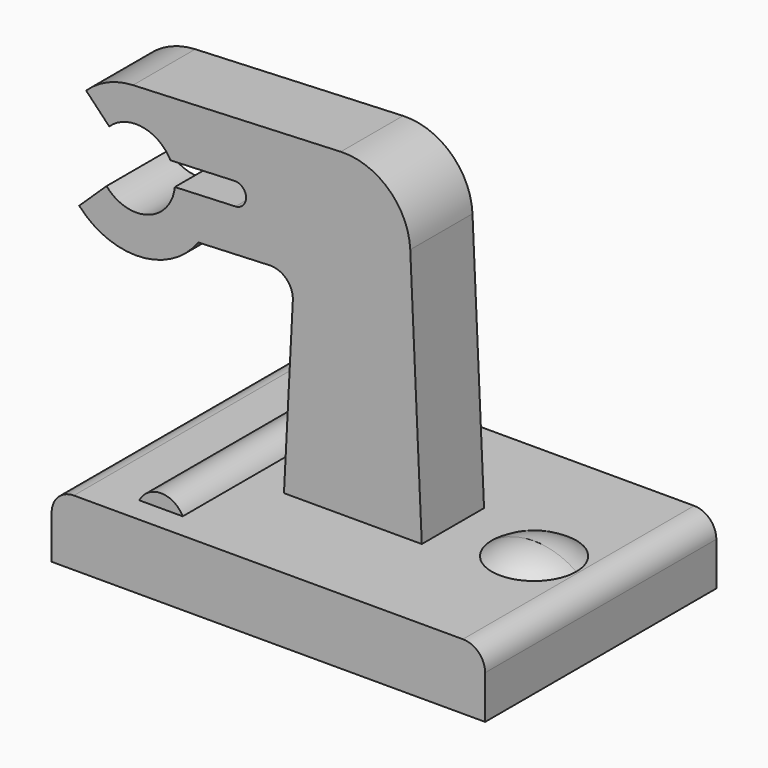
from build123d import *

# Parameters (mm, degrees)
PAD_DEPTH        = 6.5
PAD001_DEPTH     = 5.35
REVOLUTION_ANGLE = -180
PAD002_DEPTH     = 1.75


with BuildPart() as part:
    # Sketch → Pad (new body)
    with BuildSketch(Plane.XZ):
        with BuildLine():
            Line((-9.75, 0), (9.75, 0))
            Line((9.75, 0), (9.75, 1.95))
            ThreePointArc((9.75, 1.95), (9.457107, 2.657107), (8.75, 2.95))
            Line((8.75, 2.95), (-8.75, 2.95))
            ThreePointArc((-8.75, 2.95), (-9.457107, 2.657107), (-9.75, 1.95))
            Line((-9.75, 1.95), (-9.75, 0))
        make_face()
    pad = extrude(amount=-PAD_DEPTH)

    # Sketch001 → Pad001 (join)
    with BuildSketch(Plane.XZ):
        with BuildLine():
            ThreePointArc((-4.775, 2.95), (-5.75, 3.55), (-6.725, 2.95))
            Line((-6.725, 2.95), (-4.775, 2.95))
        make_face()
    pad001 = extrude(amount=-PAD001_DEPTH)

    # Sketch002 → Revolution (revolve)
    with BuildSketch(Plane.XZ):
        with BuildLine():
            ThreePointArc((8.65, 2.95), (7.746243, 3.396436), (6.75, 3.55))
            Line((6.75, 3.55), (6.75, 0.241667))
            Line((8.65, 2.95), (6.75, 0.241667))
        make_face()
    revolution = revolve(axis=Axis((6.75, 0, 3.55), (0, 0, -1)), revolution_arc=REVOLUTION_ANGLE)

    # Sketch003 → Pad002 (join)
    with BuildSketch(Plane.XZ):
        with BuildLine():
            Line((-3.1, 2.95), (3.1, 2.95))
            Line((3.1, 2.95), (2.580696, 14.438223))
            ThreePointArc((2.580696, 14.438223), (1.609703, 16.515339), (-0.544721, 17.3))
            Line((-0.544721, 17.3), (-9.889288, 16.899445))
            ThreePointArc((-9.889288, 16.899445), (-11.025908, 16.641713), (-11.998693, 15.999824))
            Line((-11.998693, 15.999824), (-10.959931, 14.914345))
            ThreePointArc((-8.203688, 14.469402), (-9.471106, 15.377634), (-10.959931, 14.914345))
            Line((-8.203688, 14.469402), (-5.32558, 14.592772))
            ThreePointArc((-5.282715, 13.592772), (-4.804147, 14.114205), (-5.32558, 14.592772))
            Line((-5.282715, 13.592772), (-8.008679, 13.475924))
            ThreePointArc((-11.081461, 12.514345), (-9.227358, 11.979867), (-8.008679, 13.475924))
            Line((-12.311103, 11.337624), (-11.081461, 12.514345))
            ThreePointArc((-12.311103, 11.337624), (-9.56498, 10.204409), (-6.956, 11.62518))
            Line((-3.742396, 11.762931), (-6.956, 11.62518))
            ThreePointArc((-2.700889, 10.712502), (-2.989454, 11.467933), (-3.742396, 11.762931))
            Line((-3.1, 2.95), (-2.700889, 10.712502))
        make_face()
    pad002 = extrude(amount=-PAD002_DEPTH)

    # Mirrored: Pad, Pad001, Revolution, Pad002 across XZ
    add(pad.mirror(Plane.XZ))
    add(pad001.mirror(Plane.XZ))
    add(revolution.mirror(Plane.XZ))
    add(pad002.mirror(Plane.XZ))


solid = part.part
